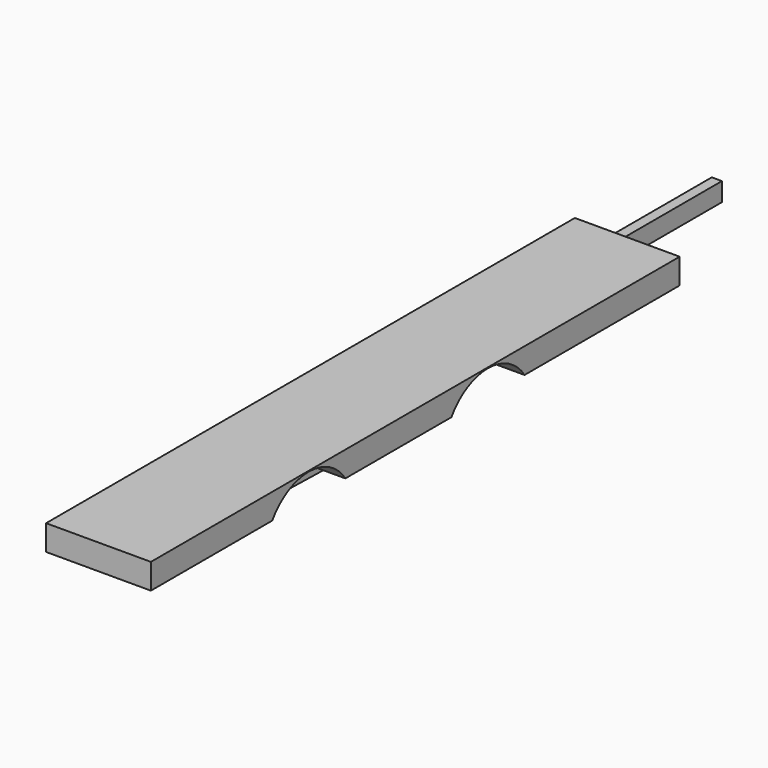
from build123d import *

# Parameters (mm, degrees)
F0_W      = 2480
F0_H      = 7820
F1_DEPTH  = 300
F2_W      = 1130
F2_H      = 200
F2_W_2    = 150
F2_H_2    = 100
F2_W_3    = 75
F3_DEPTH  = 100
F4_W      = 240
F4_H      = 220
F5_DEPTH  = 3225
F6_R      = 650
F7_DEPTH  = 675
F8_W      = 1240
F8_H      = 2025
F8_H_2    = 7820
F9_DEPTH  = 1420
F11_DEPTH = 150


with BuildPart() as f1:
    # F0 (on Top) → F1 (new body)
    with BuildSketch(Plane.XY):
        Rectangle(F0_W, F0_H)
    extrude(amount=F1_DEPTH)

    # F2 (on face) → F3 (join)
    with BuildSketch(Plane(origin=(0, 0, 0), x_dir=(1, 0, 0), z_dir=(0, 0, -1))):
        with Locations((0, -2810)):
            Rectangle(F2_W, F2_H)
        with Locations((0, -3810)):
            Rectangle(F2_W, F2_H)
        with Locations((-490, -1025)):
            Rectangle(F2_W_2, F2_H_2)
        with Locations((452.5, -1025)):
            Rectangle(F2_W_3, F2_H_2)
        with Locations((527.5, -1025)):
            Rectangle(F2_W_3, F2_H_2)
        with Locations((490, 1525)):
            Rectangle(F2_W_2, F2_H_2)
        with Locations((-490, 1525)):
            Rectangle(F2_W_2, F2_H_2)
        with Locations((-490, -275)):
            Rectangle(F2_W_2, F2_H_2)
        with Locations((452.5, -275)):
            Rectangle(F2_W_3, F2_H_2)
        with Locations((527.5, -275)):
            Rectangle(F2_W_3, F2_H_2)
        with Locations((490, 775)):
            Rectangle(F2_W_2, F2_H_2)
        with Locations((-490, 775)):
            Rectangle(F2_W_2, F2_H_2)
    extrude(amount=F3_DEPTH)

    # F4 (on face) → F5 (join)
    with BuildSketch(Plane.XZ.offset(-2710)):
        with Locations((0, -210)):
            Rectangle(F4_W, F4_H)
    extrude(amount=-F5_DEPTH)

    # F6 (on face) → F7 (cut, through all)
    with BuildSketch(Plane.YZ.offset(1240)):
        with Locations((-1575, -360)):
            Circle(F6_R)
        with Locations((1075, -360)):
            Circle(F6_R)
    extrude(amount=-F7_DEPTH, mode=Mode.SUBTRACT)

    # F8 (on face) → F9 (cut)
    with BuildSketch(Plane.XY.offset(300)):
        with Locations((-620, 4922.5)):
            Rectangle(F8_W, F8_H)
        with Locations((-620, 0)):
            Rectangle(F8_W, F8_H_2)
    extrude(amount=-F9_DEPTH, mode=Mode.SUBTRACT)

    # F10 (on face) → F11 (join, through all)
    with BuildSketch(Plane(origin=(415, 0, 0), x_dir=(0, -1, 0), z_dir=(-1, 0, 0))):
        Polygon((1575, -100), (725, -100), (725, -180), (1100, -180), (1200, -180), (1575, -180), align=None)
        Polygon((-700, -180), (-600, -180), (-225, -180), (-225, -100), (-975, -100), (-1075, -100), (-1075, -180), align=None)
        Polygon((1200, -180), (1100, -180), (1100, -230), (-600, -230), (-600, -180), (-700, -180), (-700, -330), (200, -350), (300, -350), (1200, -330), align=None)
    extrude(amount=-F11_DEPTH)


solid = f1.part
